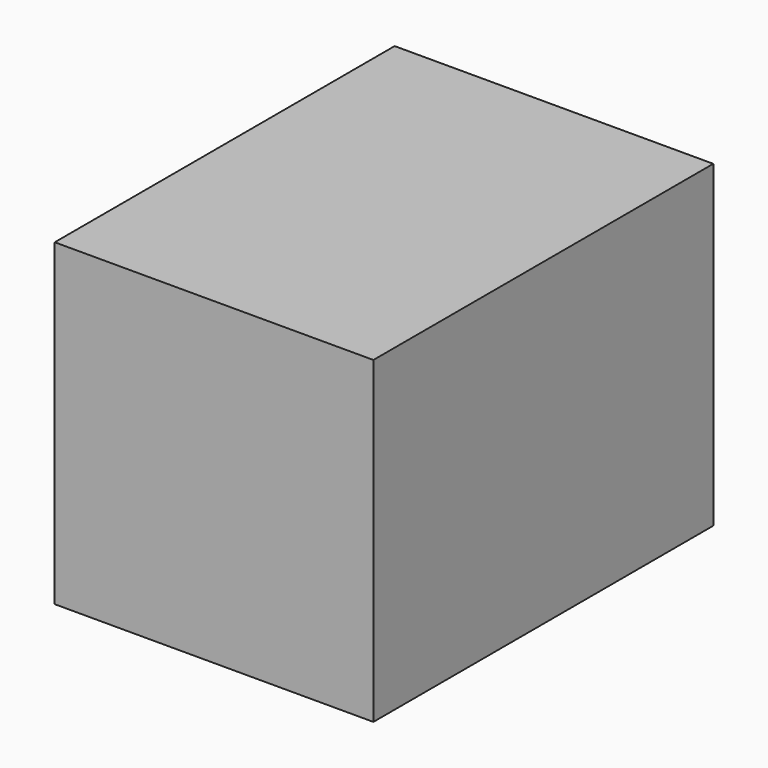
from build123d import *

# Parameters (mm, degrees)
BOX_W     = 300
BOX_H     = 400
BOX_DEPTH = 300


with BuildPart() as part:
    # Box → Box (new body)
    with BuildSketch(Plane.XY):
        with Locations((150, 200)):
            Rectangle(BOX_W, BOX_H)
    extrude(amount=BOX_DEPTH)


solid = part.part
